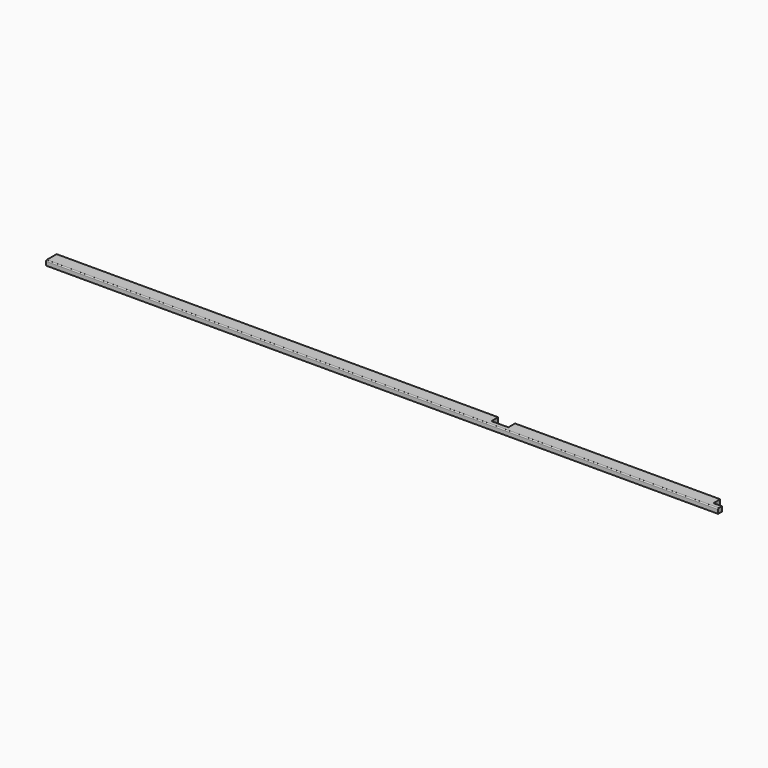
from build123d import *

# Parameters (mm, degrees)
F0_W     = 3556
F0_H     = 69.85
F1_DEPTH = 25.4
F2_W     = 44.45
F2_H     = 44.45
F3_DEPTH = 25.401
F4_W     = 88.9
F4_H     = 44.45
F5_DEPTH = 25.401
F6_R     = 5.08


with BuildPart() as f1:
    # F0 (on Top) → F1 (new body)
    with BuildSketch(Plane.XY):
        Rectangle(F0_W, F0_H)
    extrude(amount=F1_DEPTH)

    # F2 (on face) → F3 (cut, through all)
    with BuildSketch(Plane.XY.offset(25.4)):
        with Locations((1755.775, 12.7)):
            Rectangle(F2_W, F2_H)
    extrude(amount=-F3_DEPTH, mode=Mode.SUBTRACT)

    # F4 (on face) → F5 (cut, through all)
    with BuildSketch(Plane.XY.offset(25.4)):
        with Locations((603.25, 12.7)):
            Rectangle(F4_W, F4_H)
    extrude(amount=-F5_DEPTH, mode=Mode.SUBTRACT)

    # F6
    f6_edges = [f1.edges().sort_by_distance(p)[0] for p in [
        (0, -34.925, 25.4),
    ]]
    fillet(f6_edges, radius=F6_R)


solid = f1.part
